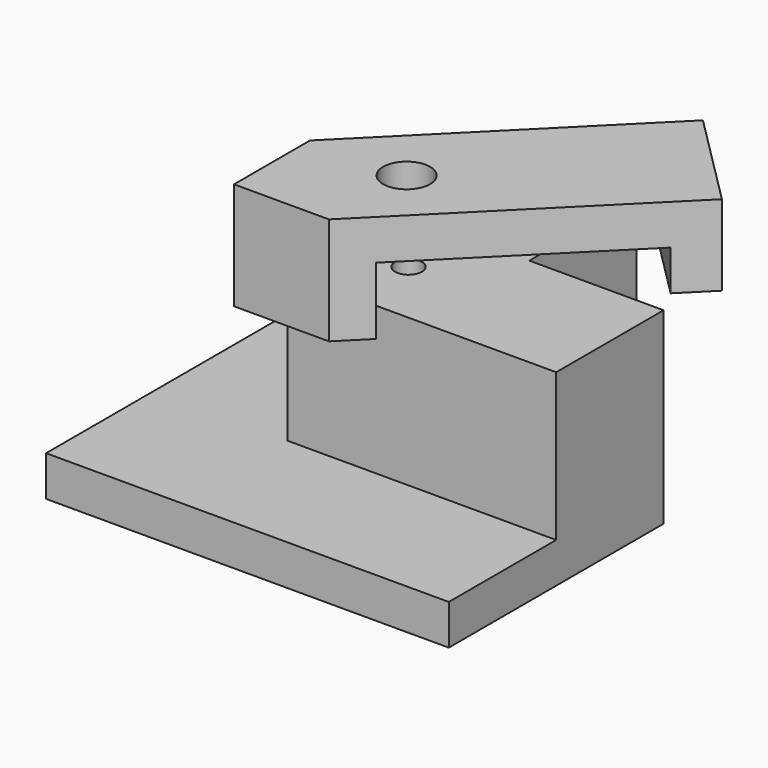
from build123d import *

# Parameters (mm, degrees)
PAD_DEPTH               = 3
PAD001_DEPTH            = 14
SKETCH003_R             = 1
POCKET_DEPTH            = 15
PAD002_DEPTH            = 8
POCKET001_DEPTH         = 5
SKETCH006_R             = 1.75
POCKET002_DEPTH         = 8.001
SKETCH007_W             = 11.862961
SKETCH007_H             = 5.30821
POCKET003_DEPTH         = 2
BODY001_PLACEMENT_ANGLE = 315


with BuildPart() as support:
    # Sketch → Pad (new body)
    with BuildSketch(Plane.XY):
        Polygon((0, 30), (0, 0), (30, 0), (30, 20), (20, 20), (20, 30), align=None)
    extrude(amount=PAD_DEPTH)

    # Sketch002 → Pad001 (join)
    with BuildSketch(Plane.XY):
        Polygon((10, 30), (10, 10), (30, 10), (30, 20), (20, 20), (20, 30), align=None)
    extrude(amount=PAD001_DEPTH)

    # Sketch003 → Pocket (cut)
    with BuildSketch(Plane.XY.offset(5)):
        with Locations((15, 15)):
            Circle(SKETCH003_R)
    extrude(amount=POCKET_DEPTH, mode=Mode.SUBTRACT)


with BuildPart() as attache:
    # Sketch004 → Pad002 (new body)
    with BuildSketch(Plane.XY):
        Polygon((-5, 5), (-5, 28), (5, 28), (5, 5), (0, 0), align=None)
    extrude(amount=PAD002_DEPTH)

    # Sketch005 → Pocket001 (cut)
    with BuildSketch(Plane.XY):
        Polygon((-5, 25), (5, 25), (5, 7.747084), (0, 3), (-5, 8), align=None)
    extrude(amount=POCKET001_DEPTH, mode=Mode.SUBTRACT)

    # Sketch006 → Pocket002 (cut, through all)
    with BuildSketch(Plane.XY):
        with Locations((0, 10.1)):
            Circle(SKETCH006_R)
    extrude(amount=POCKET002_DEPTH, mode=Mode.SUBTRACT)

    # Sketch007 → Pocket003 (cut)
    with BuildSketch(Plane.XY):
        with Locations((0.130022, 26.36264)):
            Rectangle(SKETCH007_W, SKETCH007_H)
    extrude(amount=POCKET003_DEPTH, mode=Mode.SUBTRACT)


with BuildPart() as attache_1:
    # Body001 placement: moved
    add(attache.part.moved(Location((7.778175, 7.778175, 12))).rotate(Axis((7.778175, 7.778175, 12), (0, 0, 1)), BODY001_PLACEMENT_ANGLE))


solid = Compound([support.part, attache_1.part])
